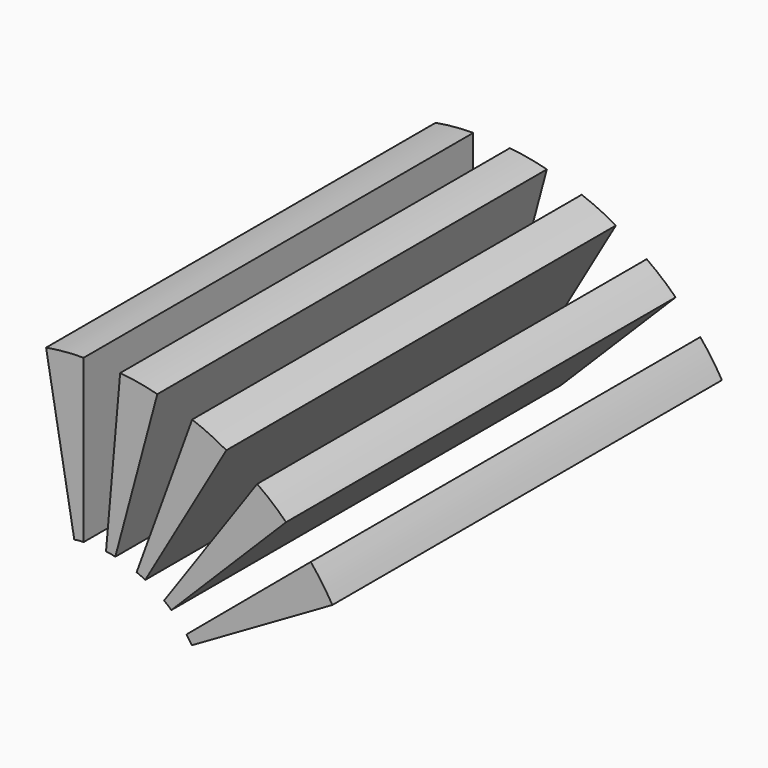
from build123d import *

# Parameters (mm, degrees)
BOX001027020_W               = 2
BOX001027020_H               = 20
BOX001027020_DEPTH           = 13
CYLINDER082_R                = 2
CYLINDER082_DEPTH            = 26
CYLINDER082_ROLL_ANGLE       = 90
CYLINDER083_R                = 8
CYLINDER083_DEPTH            = 18
CYLINDER083_ROLL_ANGLE       = 90
BOX001027019_W               = 13
BOX001027019_H               = 20
BOX001027019_DEPTH           = 2
BOX001027019_PLACEMENT_ANGLE = 80
COMMON029_PITCH_ANGLE        = 10
COMMON030_PLACEMENT_ANGLE    = 25
COMMON031_PITCH_ANGLE        = -20
COMMON032_PITCH_ANGLE        = -35
COMMON028_PITCH_ANGLE        = -5
FUSION087_PLACEMENT_ANGLE    = 25


with BuildPart() as cube040:
    # Box001027020 → Box001027020 (new body)
    with BuildSketch(Plane(origin=(0, -10, 0), x_dir=(1, 0, 0), z_dir=(0, 0, 1))):
        with Locations((1, 10)):
            Rectangle(BOX001027020_W, BOX001027020_H)
    extrude(amount=BOX001027020_DEPTH)


with BuildPart() as cylinder082:
    # Cylinder082 → Cylinder082 (new body)
    with BuildSketch(Plane.XY):
        Circle(CYLINDER082_R)
    extrude(amount=CYLINDER082_DEPTH)


with BuildPart() as cylinder082_1:
    # Cylinder082 roll: moved
    add(cylinder082.part.rotate(Axis((0, 0, 0), (1, 0, 0)), CYLINDER082_ROLL_ANGLE))


with BuildPart() as cylinder082_2:
    # Cylinder082 placement: moved
    add(cylinder082_1.part.moved(Location((0, 12, 0))))


with BuildPart() as cut045:
    # Cylinder083 → Cylinder083 (new body)
    with BuildSketch(Plane.XY):
        Circle(CYLINDER083_R)
    extrude(amount=CYLINDER083_DEPTH)


with BuildPart() as cut045_1:
    # Cylinder083 roll: moved
    add(cut045.part.rotate(Axis((0, 0, 0), (1, 0, 0)), CYLINDER083_ROLL_ANGLE))


with BuildPart() as cut045_2:
    # Cylinder083 placement: moved
    add(cut045_1.part.moved(Location((0, 9, 0))))

    # Cut045: cut Cylinder082
    add(cylinder082_2.part, mode=Mode.SUBTRACT)


with BuildPart() as cube039:
    # Box001027019 → Box001027019 (new body)
    with BuildSketch(Plane.XY):
        with Locations((6.5, 10)):
            Rectangle(BOX001027019_W, BOX001027019_H)
    extrude(amount=BOX001027019_DEPTH)


with BuildPart() as cube039_1:
    # Box001027019 placement: moved
    add(cube039.part.moved(Location((0, -10, 0))).rotate(Axis((0, -10, 0), (0, -1, 0)), BOX001027019_PLACEMENT_ANGLE))


with BuildPart() as common029:
    # Common029 base: copy of Cube039
    add(cube039_1.part)

    # Common029: intersect Cube040, Cut045
    add(cube040.part, mode=Mode.INTERSECT)
    add(cut045_2.part, mode=Mode.INTERSECT)


with BuildPart() as common029_1:
    # Common029 pitch: moved
    add(common029.part.rotate(Axis((0, 0, 0), (0, 1, 0)), COMMON029_PITCH_ANGLE))


with BuildPart() as common029_2:
    # Common029 placement: moved
    add(common029_1.part.moved(Location((0.647048, 0, 2.414815))))


with BuildPart() as common030:
    # Common030 base: copy of Cube039
    add(cube039_1.part)

    # Common030: intersect Cube040, Cut045
    add(cube040.part, mode=Mode.INTERSECT)
    add(cut045_2.part, mode=Mode.INTERSECT)


with BuildPart() as common030_1:
    # Common030 placement: moved
    add(common030.part.moved(Location((1.25, 0, 2.165064))).rotate(Axis((1.25, 0, 2.165064), (0, 1, 0)), COMMON030_PLACEMENT_ANGLE))


with BuildPart() as common031:
    # Common031 base: copy of Cube039
    add(cube039_1.part)

    # Common031: intersect Cube040, Cut045
    add(cube040.part, mode=Mode.INTERSECT)
    add(cut045_2.part, mode=Mode.INTERSECT)


with BuildPart() as common031_1:
    # Common031 pitch: moved
    add(common031.part.rotate(Axis((0, 0, 0), (0, 1, 0)), COMMON031_PITCH_ANGLE))


with BuildPart() as common031_2:
    # Common031 placement: moved
    add(common031_1.part.moved(Location((-0.647048, 0, 2.414815))))


with BuildPart() as common032:
    # Common032 base: copy of Cube039
    add(cube039_1.part)

    # Common032: intersect Cube040, Cut045
    add(cube040.part, mode=Mode.INTERSECT)
    add(cut045_2.part, mode=Mode.INTERSECT)


with BuildPart() as common032_1:
    # Common032 pitch: moved
    add(common032.part.rotate(Axis((0, 0, 0), (0, 1, 0)), COMMON032_PITCH_ANGLE))


with BuildPart() as common032_2:
    # Common032 placement: moved
    add(common032_1.part.moved(Location((-1.25, 0, 2.165064))))


with BuildPart() as strength_slots006:
    # Common028 base: copy of Cube039
    add(cube039_1.part)

    # Common028: intersect Cube040, Cut045
    add(cube040.part, mode=Mode.INTERSECT)
    add(cut045_2.part, mode=Mode.INTERSECT)


with BuildPart() as strength_slots006_1:
    # Common028 pitch: moved
    add(strength_slots006.part.rotate(Axis((0, 0, 0), (0, 1, 0)), COMMON028_PITCH_ANGLE))


with BuildPart() as strength_slots006_2:
    # Common028 placement: moved
    add(strength_slots006_1.part.moved(Location((0, 0, 2.5))))

    # Fusion087: union Common029, Common030, Common031, Common032
    add(common029_2.part)
    add(common030_1.part)
    add(common031_2.part)
    add(common032_2.part)


with BuildPart() as strength_slots006_3:
    # Fusion087 placement: moved
    add(strength_slots006_2.part.moved(Location((64.633927, 0, -29.640538))).rotate(Axis((64.633927, 0, -29.640538), (0, 1, 0)), FUSION087_PLACEMENT_ANGLE))


solid = strength_slots006_3.part
